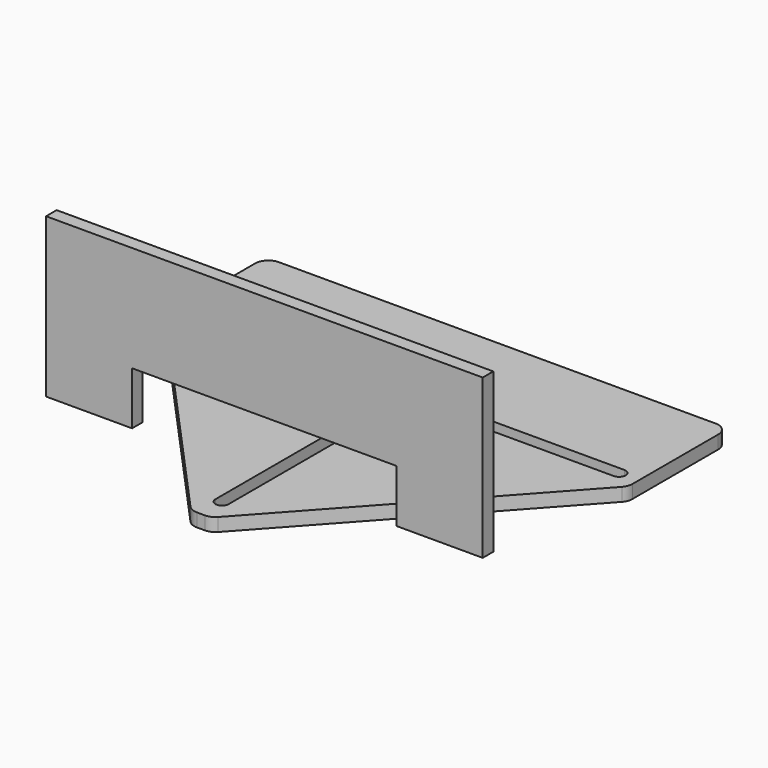
from build123d import *

# Parameters (mm, degrees)
F1_DEPTH = 6.35
F3_W     = 41.275
F3_H     = 25.4
F4_DEPTH = 6.35
F5_R     = 6.35


with BuildPart() as f1:
    # F0 (on Top) → F1 (new body)
    with BuildSketch(Plane.XY):
        Polygon((-111.125, -60.325), (-4.7625, -177.8), (4.7625, -177.8), (111.125, -60.325), (111.125, 0), (-111.125, 0), align=None)
        with BuildLine():
            Line((-9.525, -57.15), (-101.6, -57.15))
            ThreePointArc((-101.6, -57.15), (-104.775, -53.975), (-101.6, -50.8))
            Line((-101.6, -50.8), (-9.525, -50.8))
            Line((-9.525, -50.8), (9.525, -50.8))
            Line((9.525, -50.8), (101.6, -50.8))
            ThreePointArc((101.6, -50.8), (104.775, -53.975), (101.6, -57.15))
            Line((101.6, -57.15), (9.525, -57.15))
            Line((9.525, -57.15), (3.175, -57.15))
            Line((3.175, -57.15), (3.175, -165.1))
            ThreePointArc((3.175, -165.1), (0, -168.275), (-3.175, -165.1))
            Line((-3.175, -165.1), (-3.175, -57.15))
            Line((-3.175, -57.15), (-9.525, -57.15))
        make_face(mode=Mode.SUBTRACT)
        with BuildLine():
            ThreePointArc((-9.525, -50.8), (-6.35, -53.975), (-9.525, -57.15))
            Line((-9.525, -57.15), (-3.175, -57.15))
            ThreePointArc((-3.175, -57.15), (0, -53.975), (3.175, -57.15))
            Line((3.175, -57.15), (9.525, -57.15))
            ThreePointArc((9.525, -57.15), (6.35, -53.975), (9.525, -50.8))
            Line((9.525, -50.8), (-9.525, -50.8))
        make_face()
    extrude(amount=F1_DEPTH)

    # F5
    f5_edges = [f1.edges().sort_by_distance(p)[0] for p in [
        (-111.125, -60.325, 3.175),
        (-111.125, 0, 3.175),
        (-4.7625, -177.8, 3.175),
        (4.7625, -177.8, 3.175),
        (111.125, 0, 3.175),
        (111.125, -60.325, 3.175),
    ]]
    fillet(f5_edges, radius=F5_R)


with BuildPart() as f4:
    # F3 (on offset) → F4 (new body)
    with BuildSketch(Plane.XZ.offset(139.7)):
        Polygon((104.775, 82.55), (-104.775, 82.55), (-104.775, 31.75), (-63.5, 31.75), (63.5, 31.75), (104.775, 31.75), align=None)
        with Locations((-84.1375, 19.05)):
            Rectangle(F3_W, F3_H)
        with Locations((84.1375, 19.05)):
            Rectangle(F3_W, F3_H)
    extrude(amount=-F4_DEPTH)


solid = Compound([f1.part, f4.part])
